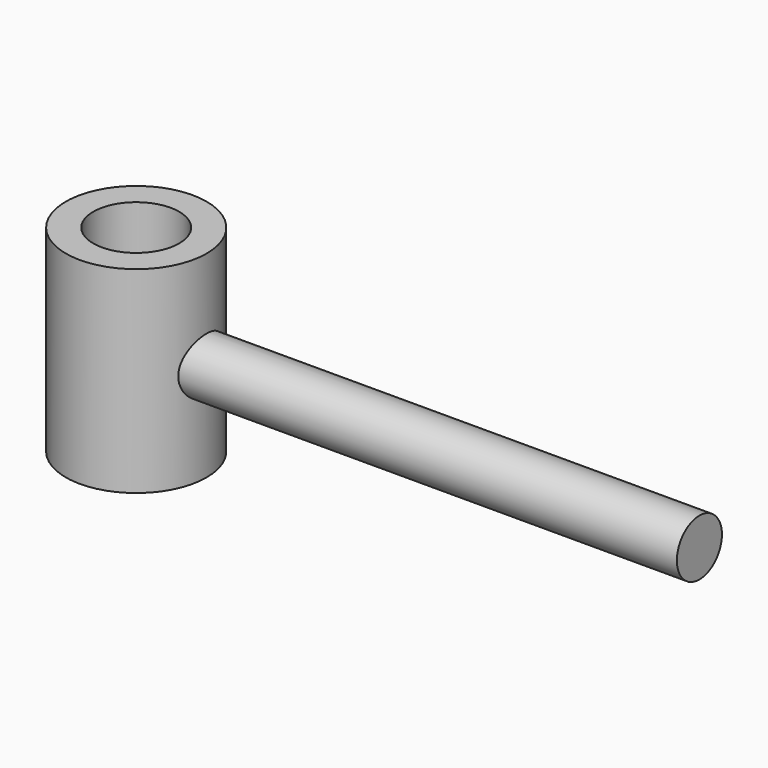
from build123d import *

# Parameters (mm, degrees)
F0_R     = 25
F0_R_2   = 15.25
F1_DEPTH = 35
F2_R     = 10
F3_DEPTH = 200


with BuildPart() as f1:
    # F0 (on Top) → F1 (new body, symmetric)
    with BuildSketch(Plane.XY):
        Circle(F0_R)
        Circle(F0_R_2, mode=Mode.SUBTRACT)
    extrude(amount=F1_DEPTH, both=True)

    # F2 (on Right) → F3 (join)
    with BuildSketch(Plane.YZ):
        Circle(F2_R)
    extrude(amount=F3_DEPTH)


solid = f1.part
